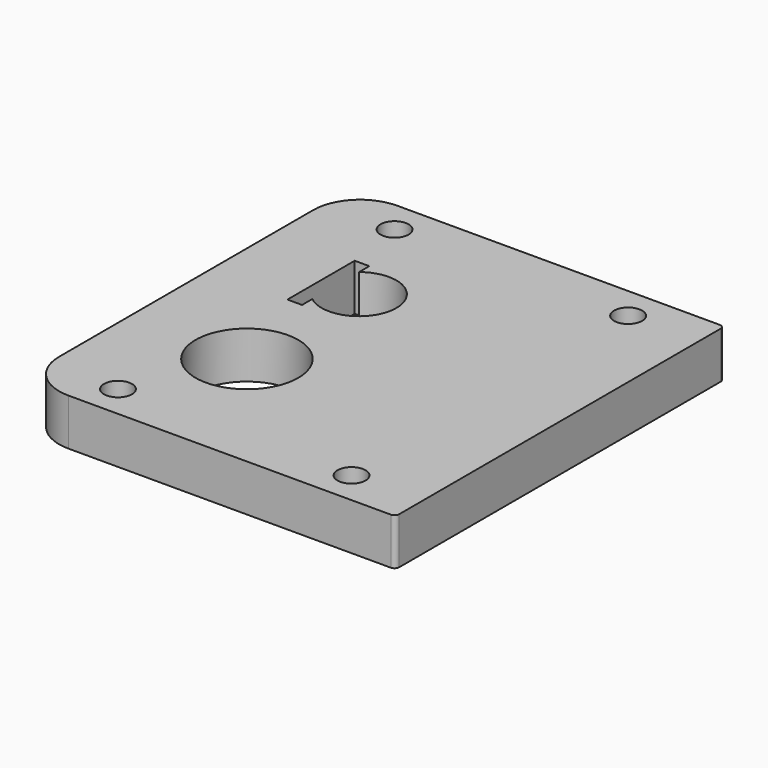
from build123d import *

# Parameters (mm, degrees)
SKETCH_W    = 80
SKETCH_H    = 88
SKETCH_R    = 11
SKETCH_R_2  = 3
PAD_DEPTH   = 10
FILLET_R    = 10
FILLET001_R = 1


with BuildPart() as part:
    # Sketch → Pad (new body)
    with BuildSketch(Plane.XY):
        with Locations((15, -15)):
            Rectangle(SKETCH_W, SKETCH_H)
        with Locations((0, -30)):
            Circle(SKETCH_R, mode=Mode.SUBTRACT)
        with Locations((-10, -52)):
            Circle(SKETCH_R_2, mode=Mode.SUBTRACT)
        with Locations((40, -52)):
            Circle(SKETCH_R_2, mode=Mode.SUBTRACT)
        with Locations((40, 22)):
            Circle(SKETCH_R_2, mode=Mode.SUBTRACT)
        with Locations((-10, 22)):
            Circle(SKETCH_R_2, mode=Mode.SUBTRACT)
        with BuildLine():
            ThreePointArc((-5, -6.244998), (8, 0), (-5, 6.244998))
            Line((-5, 9), (-5, 6.244998))
            Line((-8.125, 9), (-5, 9))
            Line((-8.125, -9), (-8.125, 9))
            Line((-5, -9), (-8.125, -9))
            Line((-5, -6.244998), (-5, -9))
        make_face(mode=Mode.SUBTRACT)
    extrude(amount=PAD_DEPTH)

    # Fillet
    fillet_edges = [part.edges().sort_by_distance(p)[0] for p in [
        (-25, 29, 5),
        (-25, -59, 5),
    ]]
    fillet(fillet_edges, radius=FILLET_R)

    # Fillet001
    fillet001_edges = [part.edges().sort_by_distance(p)[0] for p in [
        (55, -59, 5),
        (55, 29, 5),
    ]]
    fillet(fillet001_edges, radius=FILLET001_R)


solid = part.part
